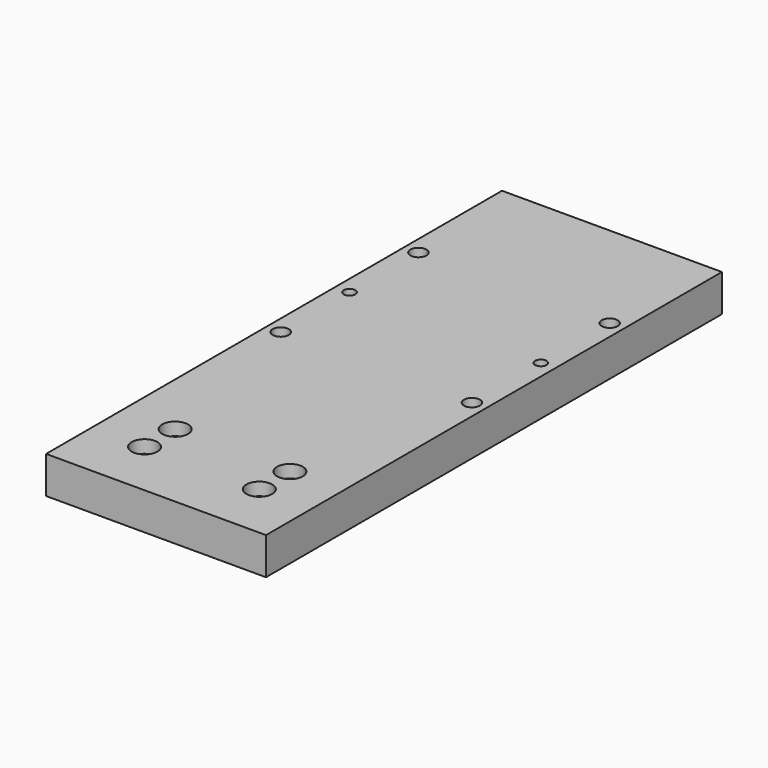
from build123d import *

# Parameters (mm, degrees)
F0_W           = 57.5
F0_H           = 149
F1_DEPTH       = 9.7
F2_D           = 4.2
F3_D           = 3
F5_D           = 6.7564
F5_DEPTH       = 20
F5_CBORE_D     = 9.525
F5_CBORE_DEPTH = 6.35
F5_TIP         = 2.0298273432
F6_D           = 6.7564
F6_DEPTH       = 20
F6_CBORE_D     = 9.525
F6_CBORE_DEPTH = 6.35
F6_TIP         = 2.0298273432


with BuildPart() as f1:
    # F0 (on Top) → F1 (new body)
    with BuildSketch(Plane.XY):
        Rectangle(F0_W, F0_H)
    extrude(amount=-F1_DEPTH)

    # F2 (through all)
    with Locations(Plane.XY):
        with Locations((-25, 42.5), (25, 42.5), (-25, -2.5), (25, -2.5)):
            Hole(F2_D / 2)

    # F3 (through all)
    with Locations(Plane.XY):
        with Locations((-25, 20), (25, 20)):
            Hole(F3_D / 2)

    # F5
    with Locations(Plane(origin=(0, 0, -9.7), x_dir=(1, 0, 0), z_dir=(0, 0, -1))):
        with Locations((-15, 49.5), (15, 49.5)):
            CounterBoreHole(F5_D / 2, F5_CBORE_D / 2, F5_CBORE_DEPTH, depth=F5_DEPTH)
            with Locations((0, 0, -(F5_DEPTH + F5_TIP / 2))):  # 118° drill point
                Cone(0, F5_D / 2, F5_TIP, mode=Mode.SUBTRACT)

    # F6
    with Locations(Plane(origin=(0, 0, -9.7), x_dir=(1, 0, 0), z_dir=(0, 0, -1))):
        with Locations((-15, 59.5), (15, 59.5)):
            CounterBoreHole(F6_D / 2, F6_CBORE_D / 2, F6_CBORE_DEPTH, depth=F6_DEPTH)
            with Locations((0, 0, -(F6_DEPTH + F6_TIP / 2))):  # 118° drill point
                Cone(0, F6_D / 2, F6_TIP, mode=Mode.SUBTRACT)


solid = f1.part
